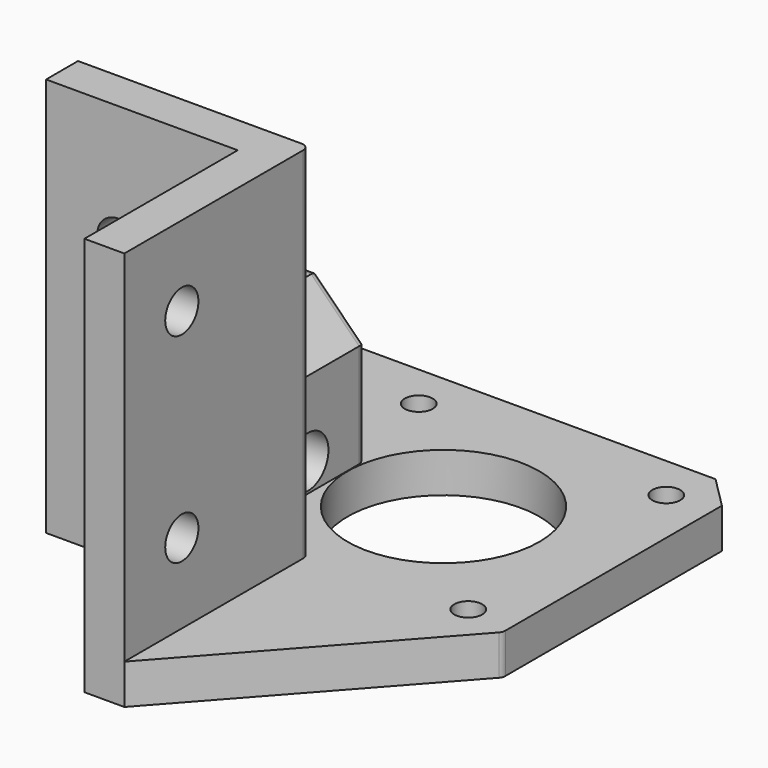
from build123d import *

# Parameters (mm, degrees)
SKETCH_R        = 12
SKETCH_R_2      = 1.75
PAD_DEPTH       = 5
PAD001_DEPTH    = 45
PAD002_DEPTH    = 19
POCKET_DEPTH    = 1
SKETCH004_R     = 4.15
POCKET001_DEPTH = 48.001
SKETCH005_R     = 2.6
POCKET002_DEPTH = 42.301
SKETCH006_R     = 2.6
POCKET003_DEPTH = 5
SKETCH008_R     = 1.75
POCKET004_DEPTH = 20.801
SKETCH009_R     = 3.2
POCKET005_DEPTH = 3
POCKET006_DEPTH = 4
SKETCH011_W     = 1
SKETCH011_H     = 8
POCKET007_DEPTH = 18.99
FILLET_R        = 1
FILLET001_R     = 0.5
CHAMFER_SIZE    = 0.49


with BuildPart() as part:
    # Sketch → Pad (new body)
    with BuildSketch(Plane.XY):
        Polygon((0, 0), (-24, 0), (-24, 5), (-15.5, 5), (-15.5, 25), (-24, 25), (-24, 38.3), (-20, 42.3), (26, 42.3), (30, 38.3), (30, 4), (5, -24), (0, -24), align=None)
        with Locations((8.85, 21.15)):
            Circle(SKETCH_R, mode=Mode.SUBTRACT)
        with Locations((-6.65, 36.65)):
            Circle(SKETCH_R_2, mode=Mode.SUBTRACT)
        with Locations((24.35, 36.65)):
            Circle(SKETCH_R_2, mode=Mode.SUBTRACT)
        with Locations((24.35, 5.65)):
            Circle(SKETCH_R_2, mode=Mode.SUBTRACT)
    extrude(amount=PAD_DEPTH)

    # Sketch001 (on Face19 of Pad) → Pad001 (join)
    with BuildSketch(Plane.XY.offset(5)):
        Polygon((0, 0), (-24, 0), (-24, 5), (5, 5), (5, -24), (0, -24), align=None)
    extrude(amount=PAD001_DEPTH)

    # Sketch002 (on Face21 of Pad001) → Pad002 (join)
    with BuildSketch(Plane(origin=(0, 5, 0), x_dir=(-1, 0, 0), z_dir=(0, 1, 0))):
        Polygon((24, 0), (24, 18), (18, 24), (9.2, 24), (3.2, 18), (3.2, 5), (16.5, 5), (16.5, 0), align=None)
    extrude(amount=PAD002_DEPTH)

    # Sketch003 (on Face30 of Pad002) → Pocket (cut)
    with BuildSketch(Plane(origin=(0, 5, 0), x_dir=(-1, 0, 0), z_dir=(0, 1, 0))):
        Polygon((15.5, 0), (15.5, 18), (19.75, 22.25), (24, 18), (24, 0), align=None)
    extrude(amount=POCKET_DEPTH, mode=Mode.SUBTRACT)

    # Sketch004 (on Face37 of Pocket) → Pocket001 (cut, through all)
    with BuildSketch(Plane(origin=(0, 24, 0), x_dir=(-1, 0, 0), z_dir=(0, 1, 0))):
        with Locations((13.6, 15.5)):
            Circle(SKETCH004_R)
    extrude(amount=-POCKET001_DEPTH, mode=Mode.SUBTRACT)

    # Sketch005 (on Face4 of Pocket001) → Pocket002 (cut, through all)
    with BuildSketch(Plane.XZ):
        with Locations((-15, 35)):
            Circle(SKETCH005_R)
    extrude(amount=-POCKET002_DEPTH, mode=Mode.SUBTRACT)

    # Sketch006 (on Face7 of Pocket002) → Pocket003 (cut)
    with BuildSketch(Plane(origin=(0, 0, 0), x_dir=(0, -1, 0), z_dir=(-1, 0, 0))):
        with Locations((15, 40)):
            Circle(SKETCH006_R)
        with Locations((15, 15)):
            Circle(SKETCH006_R)
    extrude(amount=-POCKET003_DEPTH, mode=Mode.SUBTRACT)

    # Sketch008 (on Face41 of Pocket003) → Pocket004 (cut, through all)
    with BuildSketch(Plane.YZ.offset(-3.2)):
        with Locations((15, 8.5)):
            Circle(SKETCH008_R)
    extrude(amount=-POCKET004_DEPTH, mode=Mode.SUBTRACT)

    # Sketch009 (on Face41 of Pocket004) → Pocket005 (cut)
    with BuildSketch(Plane.YZ.offset(-3.2)):
        with Locations((15, 8.5)):
            Circle(SKETCH009_R)
    extrude(amount=-POCKET005_DEPTH, mode=Mode.SUBTRACT)

    # Sketch010 (on Face43 of Pocket005) → Pocket006 (cut)
    with BuildSketch(Plane(origin=(-24, 0, 0), x_dir=(0, -1, 0), z_dir=(-1, 0, 0))):
        Polygon((-12.1, 6.825684), (-12.1, 10.174316), (-15, 11.848632), (-17.9, 10.174316), (-17.9, 6.825684), (-15, 5.151368), align=None)
    extrude(amount=-POCKET006_DEPTH, mode=Mode.SUBTRACT)

    # Sketch011 (on Face36 of Pocket006) → Pocket007 (cut)
    with BuildSketch(Plane(origin=(0, 24, 0), x_dir=(-1, 0, 0), z_dir=(0, 1, 0))):
        with Locations((16, 9)):
            Rectangle(SKETCH011_W, SKETCH011_H)
    extrude(amount=-POCKET007_DEPTH, mode=Mode.SUBTRACT)

    # Fillet
    fillet_edges = [part.edges().sort_by_distance(p)[0] for p in [
        (5, 5, 27.5),
        (-3.2, 24, 11.5),
        (-6.2, 24, 21),
        (-13.6, 24, 24),
        (-21, 24, 21),
        (-24, 24, 9),
        (30, 4, 2.5),
        (-24, 6, 9),
        (-21.875, 6, 20.125),
        (-19.75, 5.5, 22.25),
        (-16.5, 15, 12.531414),
    ]]
    fillet(fillet_edges, radius=FILLET_R)

    # Fillet001
    fillet001_edges = [part.edges().sort_by_distance(p)[0] for p in [
        (-15.5, 15, 11.810488),
    ]]
    fillet(fillet001_edges, radius=FILLET001_R)

    # Chamfer
    chamfer_edges = [part.edges().sort_by_distance(p)[0] for p in [
        (-10.25278, 24, 17.953287),
    ]]
    chamfer(chamfer_edges, length=CHAMFER_SIZE)


solid = part.part
